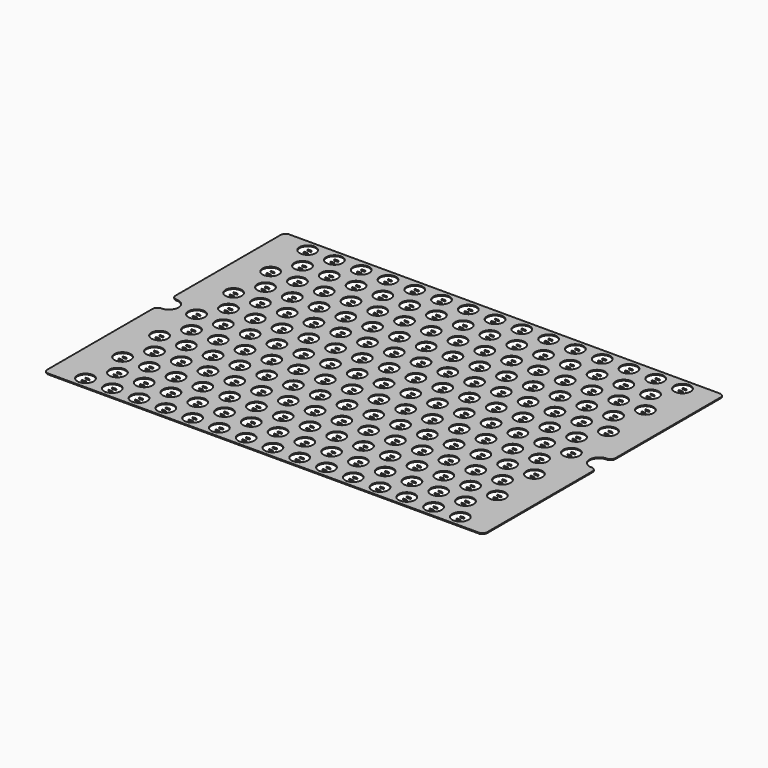
from build123d import *

# Parameters (mm, degrees)
F0_R     = 8.5
F1_DEPTH = 1
F2_W     = 4
F2_H     = 0.6
F3_DEPTH = 1


with BuildPart() as f1:
    # F0 (on Top) → F1 (new body)
    with BuildSketch(Plane.XY):
        with BuildLine():
            Line((225, 157.5), (-225, 157.5))
            ThreePointArc((-225, 157.5), (-228.535534, 156.035534), (-230, 152.5))
            Line((-230, 152.5), (-230, 15))
            ThreePointArc((-230, 15), (-228.535534, 11.464466), (-225, 10))
            ThreePointArc((-225, 10), (-215, 0), (-225, -10))
            ThreePointArc((-225, -10), (-228.535534, -11.464466), (-230, -15))
            Line((-230, -15), (-230, -152.5))
            ThreePointArc((-230, -152.5), (-228.535534, -156.035534), (-225, -157.5))
            Line((-225, -157.5), (225, -157.5))
            ThreePointArc((225, -157.5), (228.535534, -156.035534), (230, -152.5))
            Line((230, -152.5), (230, -15))
            ThreePointArc((230, -15), (228.535534, -11.464466), (225, -10))
            ThreePointArc((225, -10), (215, 0), (225, 10))
            ThreePointArc((225, 10), (228.535534, 11.464466), (230, 15))
            Line((230, 15), (230, 152.5))
            ThreePointArc((230, 152.5), (228.535534, 156.035534), (225, 157.5))
        make_face()
        with Locations((-196, -145.2)):
            Circle(F0_R, mode=Mode.SUBTRACT)
        with Locations((-182, -121)):
            Circle(F0_R, mode=Mode.SUBTRACT)
        with Locations((-168, -145.2)):
            Circle(F0_R, mode=Mode.SUBTRACT)
        with Locations((-140, -145.2)):
            Circle(F0_R, mode=Mode.SUBTRACT)
        with Locations((-154, -121)):
            Circle(F0_R, mode=Mode.SUBTRACT)
        with Locations((-126, -121)):
            Circle(F0_R, mode=Mode.SUBTRACT)
        with Locations((-196, -96.8)):
            Circle(F0_R, mode=Mode.SUBTRACT)
        with Locations((-168, -96.8)):
            Circle(F0_R, mode=Mode.SUBTRACT)
        with Locations((-140, -96.8)):
            Circle(F0_R, mode=Mode.SUBTRACT)
        with Locations((-112, -145.2)):
            Circle(F0_R, mode=Mode.SUBTRACT)
        with Locations((-84, -145.2)):
            Circle(F0_R, mode=Mode.SUBTRACT)
        with Locations((-98, -121)):
            Circle(F0_R, mode=Mode.SUBTRACT)
        with Locations((-70, -121)):
            Circle(F0_R, mode=Mode.SUBTRACT)
        with Locations((-56, -145.2)):
            Circle(F0_R, mode=Mode.SUBTRACT)
        with Locations((-28, -145.2)):
            Circle(F0_R, mode=Mode.SUBTRACT)
        with Locations((-42, -121)):
            Circle(F0_R, mode=Mode.SUBTRACT)
        with Locations((-14, -121)):
            Circle(F0_R, mode=Mode.SUBTRACT)
        with Locations((-112, -96.8)):
            Circle(F0_R, mode=Mode.SUBTRACT)
        with Locations((-84, -96.8)):
            Circle(F0_R, mode=Mode.SUBTRACT)
        with Locations((-56, -96.8)):
            Circle(F0_R, mode=Mode.SUBTRACT)
        with Locations((-28, -96.8)):
            Circle(F0_R, mode=Mode.SUBTRACT)
        with Locations((-182, -72.6)):
            Circle(F0_R, mode=Mode.SUBTRACT)
        with Locations((-196, -48.4)):
            Circle(F0_R, mode=Mode.SUBTRACT)
        with Locations((-154, -72.6)):
            Circle(F0_R, mode=Mode.SUBTRACT)
        with Locations((-126, -72.6)):
            Circle(F0_R, mode=Mode.SUBTRACT)
        with Locations((-168, -48.4)):
            Circle(F0_R, mode=Mode.SUBTRACT)
        with Locations((-140, -48.4)):
            Circle(F0_R, mode=Mode.SUBTRACT)
        with Locations((-182, -24.2)):
            Circle(F0_R, mode=Mode.SUBTRACT)
        with Locations((-154, -24.2)):
            Circle(F0_R, mode=Mode.SUBTRACT)
        with Locations((-126, -24.2)):
            Circle(F0_R, mode=Mode.SUBTRACT)
        with Locations((-98, -72.6)):
            Circle(F0_R, mode=Mode.SUBTRACT)
        with Locations((-70, -72.6)):
            Circle(F0_R, mode=Mode.SUBTRACT)
        with Locations((-112, -48.4)):
            Circle(F0_R, mode=Mode.SUBTRACT)
        with Locations((-84, -48.4)):
            Circle(F0_R, mode=Mode.SUBTRACT)
        with Locations((-42, -72.6)):
            Circle(F0_R, mode=Mode.SUBTRACT)
        with Locations((-14, -72.6)):
            Circle(F0_R, mode=Mode.SUBTRACT)
        with Locations((-56, -48.4)):
            Circle(F0_R, mode=Mode.SUBTRACT)
        with Locations((-28, -48.4)):
            Circle(F0_R, mode=Mode.SUBTRACT)
        with Locations((-98, -24.2)):
            Circle(F0_R, mode=Mode.SUBTRACT)
        with Locations((-70, -24.2)):
            Circle(F0_R, mode=Mode.SUBTRACT)
        with Locations((-42, -24.2)):
            Circle(F0_R, mode=Mode.SUBTRACT)
        with Locations((-14, -24.2)):
            Circle(F0_R, mode=Mode.SUBTRACT)
        with Locations((0, -145.2)):
            Circle(F0_R, mode=Mode.SUBTRACT)
        with Locations((28, -145.2)):
            Circle(F0_R, mode=Mode.SUBTRACT)
        with Locations((56, -145.2)):
            Circle(F0_R, mode=Mode.SUBTRACT)
        with Locations((14, -121)):
            Circle(F0_R, mode=Mode.SUBTRACT)
        with Locations((42, -121)):
            Circle(F0_R, mode=Mode.SUBTRACT)
        with Locations((84, -145.2)):
            Circle(F0_R, mode=Mode.SUBTRACT)
        with Locations((112, -145.2)):
            Circle(F0_R, mode=Mode.SUBTRACT)
        with Locations((70, -121)):
            Circle(F0_R, mode=Mode.SUBTRACT)
        with Locations((98, -121)):
            Circle(F0_R, mode=Mode.SUBTRACT)
        with Locations((0, -96.8)):
            Circle(F0_R, mode=Mode.SUBTRACT)
        with Locations((28, -96.8)):
            Circle(F0_R, mode=Mode.SUBTRACT)
        with Locations((56, -96.8)):
            Circle(F0_R, mode=Mode.SUBTRACT)
        with Locations((84, -96.8)):
            Circle(F0_R, mode=Mode.SUBTRACT)
        with Locations((112, -96.8)):
            Circle(F0_R, mode=Mode.SUBTRACT)
        with Locations((140, -145.2)):
            Circle(F0_R, mode=Mode.SUBTRACT)
        with Locations((168, -145.2)):
            Circle(F0_R, mode=Mode.SUBTRACT)
        with Locations((126, -121)):
            Circle(F0_R, mode=Mode.SUBTRACT)
        with Locations((154, -121)):
            Circle(F0_R, mode=Mode.SUBTRACT)
        with Locations((196, -145.2)):
            Circle(F0_R, mode=Mode.SUBTRACT)
        with Locations((182, -121)):
            Circle(F0_R, mode=Mode.SUBTRACT)
        with Locations((140, -96.8)):
            Circle(F0_R, mode=Mode.SUBTRACT)
        with Locations((168, -96.8)):
            Circle(F0_R, mode=Mode.SUBTRACT)
        with Locations((196, -96.8)):
            Circle(F0_R, mode=Mode.SUBTRACT)
        with Locations((14, -72.6)):
            Circle(F0_R, mode=Mode.SUBTRACT)
        with Locations((42, -72.6)):
            Circle(F0_R, mode=Mode.SUBTRACT)
        with Locations((0, -48.4)):
            Circle(F0_R, mode=Mode.SUBTRACT)
        with Locations((28, -48.4)):
            Circle(F0_R, mode=Mode.SUBTRACT)
        with Locations((56, -48.4)):
            Circle(F0_R, mode=Mode.SUBTRACT)
        with Locations((70, -72.6)):
            Circle(F0_R, mode=Mode.SUBTRACT)
        with Locations((98, -72.6)):
            Circle(F0_R, mode=Mode.SUBTRACT)
        with Locations((84, -48.4)):
            Circle(F0_R, mode=Mode.SUBTRACT)
        with Locations((112, -48.4)):
            Circle(F0_R, mode=Mode.SUBTRACT)
        with Locations((14, -24.2)):
            Circle(F0_R, mode=Mode.SUBTRACT)
        with Locations((42, -24.2)):
            Circle(F0_R, mode=Mode.SUBTRACT)
        with Locations((70, -24.2)):
            Circle(F0_R, mode=Mode.SUBTRACT)
        with Locations((98, -24.2)):
            Circle(F0_R, mode=Mode.SUBTRACT)
        with Locations((126, -72.6)):
            Circle(F0_R, mode=Mode.SUBTRACT)
        with Locations((154, -72.6)):
            Circle(F0_R, mode=Mode.SUBTRACT)
        with Locations((140, -48.4)):
            Circle(F0_R, mode=Mode.SUBTRACT)
        with Locations((168, -48.4)):
            Circle(F0_R, mode=Mode.SUBTRACT)
        with Locations((182, -72.6)):
            Circle(F0_R, mode=Mode.SUBTRACT)
        with Locations((196, -48.4)):
            Circle(F0_R, mode=Mode.SUBTRACT)
        with Locations((126, -24.2)):
            Circle(F0_R, mode=Mode.SUBTRACT)
        with Locations((154, -24.2)):
            Circle(F0_R, mode=Mode.SUBTRACT)
        with Locations((182, -24.2)):
            Circle(F0_R, mode=Mode.SUBTRACT)
        with Locations((-196, 0)):
            Circle(F0_R, mode=Mode.SUBTRACT)
        with Locations((-182, 24.2)):
            Circle(F0_R, mode=Mode.SUBTRACT)
        with Locations((-168, 0)):
            Circle(F0_R, mode=Mode.SUBTRACT)
        with Locations((-140, 0)):
            Circle(F0_R, mode=Mode.SUBTRACT)
        with Locations((-154, 24.2)):
            Circle(F0_R, mode=Mode.SUBTRACT)
        with Locations((-126, 24.2)):
            Circle(F0_R, mode=Mode.SUBTRACT)
        with Locations((-196, 48.4)):
            Circle(F0_R, mode=Mode.SUBTRACT)
        with Locations((-182, 72.6)):
            Circle(F0_R, mode=Mode.SUBTRACT)
        with Locations((-168, 48.4)):
            Circle(F0_R, mode=Mode.SUBTRACT)
        with Locations((-140, 48.4)):
            Circle(F0_R, mode=Mode.SUBTRACT)
        with Locations((-154, 72.6)):
            Circle(F0_R, mode=Mode.SUBTRACT)
        with Locations((-126, 72.6)):
            Circle(F0_R, mode=Mode.SUBTRACT)
        with Locations((-112, 0)):
            Circle(F0_R, mode=Mode.SUBTRACT)
        with Locations((-84, 0)):
            Circle(F0_R, mode=Mode.SUBTRACT)
        with Locations((-98, 24.2)):
            Circle(F0_R, mode=Mode.SUBTRACT)
        with Locations((-70, 24.2)):
            Circle(F0_R, mode=Mode.SUBTRACT)
        with Locations((-56, 0)):
            Circle(F0_R, mode=Mode.SUBTRACT)
        with Locations((-28, 0)):
            Circle(F0_R, mode=Mode.SUBTRACT)
        with Locations((-42, 24.2)):
            Circle(F0_R, mode=Mode.SUBTRACT)
        with Locations((-14, 24.2)):
            Circle(F0_R, mode=Mode.SUBTRACT)
        with Locations((-112, 48.4)):
            Circle(F0_R, mode=Mode.SUBTRACT)
        with Locations((-84, 48.4)):
            Circle(F0_R, mode=Mode.SUBTRACT)
        with Locations((-98, 72.6)):
            Circle(F0_R, mode=Mode.SUBTRACT)
        with Locations((-70, 72.6)):
            Circle(F0_R, mode=Mode.SUBTRACT)
        with Locations((-56, 48.4)):
            Circle(F0_R, mode=Mode.SUBTRACT)
        with Locations((-28, 48.4)):
            Circle(F0_R, mode=Mode.SUBTRACT)
        with Locations((-42, 72.6)):
            Circle(F0_R, mode=Mode.SUBTRACT)
        with Locations((-14, 72.6)):
            Circle(F0_R, mode=Mode.SUBTRACT)
        with Locations((-196, 96.8)):
            Circle(F0_R, mode=Mode.SUBTRACT)
        with Locations((-168, 96.8)):
            Circle(F0_R, mode=Mode.SUBTRACT)
        with Locations((-140, 96.8)):
            Circle(F0_R, mode=Mode.SUBTRACT)
        with Locations((-182, 121)):
            Circle(F0_R, mode=Mode.SUBTRACT)
        with Locations((-196, 145.2)):
            Circle(F0_R, mode=Mode.SUBTRACT)
        with Locations((-154, 121)):
            Circle(F0_R, mode=Mode.SUBTRACT)
        with Locations((-126, 121)):
            Circle(F0_R, mode=Mode.SUBTRACT)
        with Locations((-168, 145.2)):
            Circle(F0_R, mode=Mode.SUBTRACT)
        with Locations((-140, 145.2)):
            Circle(F0_R, mode=Mode.SUBTRACT)
        with Locations((-112, 96.8)):
            Circle(F0_R, mode=Mode.SUBTRACT)
        with Locations((-84, 96.8)):
            Circle(F0_R, mode=Mode.SUBTRACT)
        with Locations((-56, 96.8)):
            Circle(F0_R, mode=Mode.SUBTRACT)
        with Locations((-28, 96.8)):
            Circle(F0_R, mode=Mode.SUBTRACT)
        with Locations((-98, 121)):
            Circle(F0_R, mode=Mode.SUBTRACT)
        with Locations((-70, 121)):
            Circle(F0_R, mode=Mode.SUBTRACT)
        with Locations((-112, 145.2)):
            Circle(F0_R, mode=Mode.SUBTRACT)
        with Locations((-84, 145.2)):
            Circle(F0_R, mode=Mode.SUBTRACT)
        with Locations((-42, 121)):
            Circle(F0_R, mode=Mode.SUBTRACT)
        with Locations((-14, 121)):
            Circle(F0_R, mode=Mode.SUBTRACT)
        with Locations((-56, 145.2)):
            Circle(F0_R, mode=Mode.SUBTRACT)
        with Locations((-28, 145.2)):
            Circle(F0_R, mode=Mode.SUBTRACT)
        Circle(F0_R, mode=Mode.SUBTRACT)
        with Locations((28, 0)):
            Circle(F0_R, mode=Mode.SUBTRACT)
        with Locations((56, 0)):
            Circle(F0_R, mode=Mode.SUBTRACT)
        with Locations((14, 24.2)):
            Circle(F0_R, mode=Mode.SUBTRACT)
        with Locations((42, 24.2)):
            Circle(F0_R, mode=Mode.SUBTRACT)
        with Locations((84, 0)):
            Circle(F0_R, mode=Mode.SUBTRACT)
        with Locations((112, 0)):
            Circle(F0_R, mode=Mode.SUBTRACT)
        with Locations((70, 24.2)):
            Circle(F0_R, mode=Mode.SUBTRACT)
        with Locations((98, 24.2)):
            Circle(F0_R, mode=Mode.SUBTRACT)
        with Locations((0, 48.4)):
            Circle(F0_R, mode=Mode.SUBTRACT)
        with Locations((28, 48.4)):
            Circle(F0_R, mode=Mode.SUBTRACT)
        with Locations((56, 48.4)):
            Circle(F0_R, mode=Mode.SUBTRACT)
        with Locations((14, 72.6)):
            Circle(F0_R, mode=Mode.SUBTRACT)
        with Locations((42, 72.6)):
            Circle(F0_R, mode=Mode.SUBTRACT)
        with Locations((84, 48.4)):
            Circle(F0_R, mode=Mode.SUBTRACT)
        with Locations((112, 48.4)):
            Circle(F0_R, mode=Mode.SUBTRACT)
        with Locations((70, 72.6)):
            Circle(F0_R, mode=Mode.SUBTRACT)
        with Locations((98, 72.6)):
            Circle(F0_R, mode=Mode.SUBTRACT)
        with Locations((140, 0)):
            Circle(F0_R, mode=Mode.SUBTRACT)
        with Locations((168, 0)):
            Circle(F0_R, mode=Mode.SUBTRACT)
        with Locations((126, 24.2)):
            Circle(F0_R, mode=Mode.SUBTRACT)
        with Locations((154, 24.2)):
            Circle(F0_R, mode=Mode.SUBTRACT)
        with Locations((196, 0)):
            Circle(F0_R, mode=Mode.SUBTRACT)
        with Locations((182, 24.2)):
            Circle(F0_R, mode=Mode.SUBTRACT)
        with Locations((140, 48.4)):
            Circle(F0_R, mode=Mode.SUBTRACT)
        with Locations((168, 48.4)):
            Circle(F0_R, mode=Mode.SUBTRACT)
        with Locations((126, 72.6)):
            Circle(F0_R, mode=Mode.SUBTRACT)
        with Locations((154, 72.6)):
            Circle(F0_R, mode=Mode.SUBTRACT)
        with Locations((196, 48.4)):
            Circle(F0_R, mode=Mode.SUBTRACT)
        with Locations((182, 72.6)):
            Circle(F0_R, mode=Mode.SUBTRACT)
        with Locations((0, 96.8)):
            Circle(F0_R, mode=Mode.SUBTRACT)
        with Locations((28, 96.8)):
            Circle(F0_R, mode=Mode.SUBTRACT)
        with Locations((56, 96.8)):
            Circle(F0_R, mode=Mode.SUBTRACT)
        with Locations((84, 96.8)):
            Circle(F0_R, mode=Mode.SUBTRACT)
        with Locations((112, 96.8)):
            Circle(F0_R, mode=Mode.SUBTRACT)
        with Locations((14, 121)):
            Circle(F0_R, mode=Mode.SUBTRACT)
        with Locations((42, 121)):
            Circle(F0_R, mode=Mode.SUBTRACT)
        with Locations((0, 145.2)):
            Circle(F0_R, mode=Mode.SUBTRACT)
        with Locations((28, 145.2)):
            Circle(F0_R, mode=Mode.SUBTRACT)
        with Locations((56, 145.2)):
            Circle(F0_R, mode=Mode.SUBTRACT)
        with Locations((70, 121)):
            Circle(F0_R, mode=Mode.SUBTRACT)
        with Locations((98, 121)):
            Circle(F0_R, mode=Mode.SUBTRACT)
        with Locations((84, 145.2)):
            Circle(F0_R, mode=Mode.SUBTRACT)
        with Locations((112, 145.2)):
            Circle(F0_R, mode=Mode.SUBTRACT)
        with Locations((140, 96.8)):
            Circle(F0_R, mode=Mode.SUBTRACT)
        with Locations((168, 96.8)):
            Circle(F0_R, mode=Mode.SUBTRACT)
        with Locations((196, 96.8)):
            Circle(F0_R, mode=Mode.SUBTRACT)
        with Locations((126, 121)):
            Circle(F0_R, mode=Mode.SUBTRACT)
        with Locations((154, 121)):
            Circle(F0_R, mode=Mode.SUBTRACT)
        with Locations((140, 145.2)):
            Circle(F0_R, mode=Mode.SUBTRACT)
        with Locations((168, 145.2)):
            Circle(F0_R, mode=Mode.SUBTRACT)
        with Locations((182, 121)):
            Circle(F0_R, mode=Mode.SUBTRACT)
        with Locations((196, 145.2)):
            Circle(F0_R, mode=Mode.SUBTRACT)
    extrude(amount=F1_DEPTH)


with BuildPart() as f3:
    # F2 (on face) → F3 (new body)
    with BuildSketch(Plane(origin=(0, 0, 0), x_dir=(1, 0, 0), z_dir=(0, 0, -1))):
        with Locations((196.170587, -147.537594)):
            Rectangle(F2_W, F2_H)
        with Locations((196.170587, -142.537594)):
            Rectangle(F2_W, F2_H)
        with Locations((182.148163, -123.19694)):
            Rectangle(F2_W, F2_H)
        with Locations((182.148163, -118.19694)):
            Rectangle(F2_W, F2_H)
        with Locations((196.170587, -94.137594)):
            Rectangle(F2_W, F2_H)
        with Locations((196.170587, -99.137594)):
            Rectangle(F2_W, F2_H)
        with Locations((196.170587, -45.737594)):
            Rectangle(F2_W, F2_H)
        with Locations((196.170587, -50.737594)):
            Rectangle(F2_W, F2_H)
        with Locations((196.170587, 2.662406)):
            Rectangle(F2_W, F2_H)
        with Locations((196.170587, -2.337594)):
            Rectangle(F2_W, F2_H)
        with Locations((196.170587, 51.062406)):
            Rectangle(F2_W, F2_H)
        with Locations((196.170587, 46.062406)):
            Rectangle(F2_W, F2_H)
        with Locations((196.170587, 99.462406)):
            Rectangle(F2_W, F2_H)
        with Locations((196.170587, 94.462406)):
            Rectangle(F2_W, F2_H)
        with Locations((196.170587, 147.862406)):
            Rectangle(F2_W, F2_H)
        with Locations((196.170587, 142.862406)):
            Rectangle(F2_W, F2_H)
        with Locations((168.170587, -142.537594)):
            Rectangle(F2_W, F2_H)
        with Locations((168.170587, -147.537594)):
            Rectangle(F2_W, F2_H)
        with Locations((168.170587, -94.137594)):
            Rectangle(F2_W, F2_H)
        with Locations((168.170587, -99.137594)):
            Rectangle(F2_W, F2_H)
        with Locations((168.170587, -45.737594)):
            Rectangle(F2_W, F2_H)
        with Locations((168.170587, -50.737594)):
            Rectangle(F2_W, F2_H)
        with Locations((168.170587, 2.662406)):
            Rectangle(F2_W, F2_H)
        with Locations((168.170587, -2.337594)):
            Rectangle(F2_W, F2_H)
        with Locations((168.170587, 51.062406)):
            Rectangle(F2_W, F2_H)
        with Locations((168.170587, 46.062406)):
            Rectangle(F2_W, F2_H)
        with Locations((168.170587, 99.462406)):
            Rectangle(F2_W, F2_H)
        with Locations((168.170587, 94.462406)):
            Rectangle(F2_W, F2_H)
        with Locations((168.170587, 147.862406)):
            Rectangle(F2_W, F2_H)
        with Locations((168.170587, 142.862406)):
            Rectangle(F2_W, F2_H)
        with Locations((140.170587, -142.537594)):
            Rectangle(F2_W, F2_H)
        with Locations((140.170587, -147.537594)):
            Rectangle(F2_W, F2_H)
        with Locations((140.170587, -94.137594)):
            Rectangle(F2_W, F2_H)
        with Locations((140.170587, -99.137594)):
            Rectangle(F2_W, F2_H)
        with Locations((140.170587, -45.737594)):
            Rectangle(F2_W, F2_H)
        with Locations((140.170587, -50.737594)):
            Rectangle(F2_W, F2_H)
        with Locations((140.170587, 2.662406)):
            Rectangle(F2_W, F2_H)
        with Locations((140.170587, -2.337594)):
            Rectangle(F2_W, F2_H)
        with Locations((140.170587, 51.062406)):
            Rectangle(F2_W, F2_H)
        with Locations((140.170587, 46.062406)):
            Rectangle(F2_W, F2_H)
        with Locations((140.170587, 99.462406)):
            Rectangle(F2_W, F2_H)
        with Locations((140.170587, 94.462406)):
            Rectangle(F2_W, F2_H)
        with Locations((140.170587, 147.862406)):
            Rectangle(F2_W, F2_H)
        with Locations((140.170587, 142.862406)):
            Rectangle(F2_W, F2_H)
        with Locations((112.170587, -142.537594)):
            Rectangle(F2_W, F2_H)
        with Locations((112.170587, -147.537594)):
            Rectangle(F2_W, F2_H)
        with Locations((112.170587, -94.137594)):
            Rectangle(F2_W, F2_H)
        with Locations((112.170587, -99.137594)):
            Rectangle(F2_W, F2_H)
        with Locations((112.170587, -45.737594)):
            Rectangle(F2_W, F2_H)
        with Locations((112.170587, -50.737594)):
            Rectangle(F2_W, F2_H)
        with Locations((112.170587, 2.662406)):
            Rectangle(F2_W, F2_H)
        with Locations((112.170587, -2.337594)):
            Rectangle(F2_W, F2_H)
        with Locations((112.170587, 51.062406)):
            Rectangle(F2_W, F2_H)
        with Locations((112.170587, 46.062406)):
            Rectangle(F2_W, F2_H)
        with Locations((112.170587, 99.462406)):
            Rectangle(F2_W, F2_H)
        with Locations((112.170587, 94.462406)):
            Rectangle(F2_W, F2_H)
        with Locations((112.170587, 147.862406)):
            Rectangle(F2_W, F2_H)
        with Locations((112.170587, 142.862406)):
            Rectangle(F2_W, F2_H)
        with Locations((84.170587, -142.537594)):
            Rectangle(F2_W, F2_H)
        with Locations((84.170587, -147.537594)):
            Rectangle(F2_W, F2_H)
        with Locations((84.170587, -94.137594)):
            Rectangle(F2_W, F2_H)
        with Locations((84.170587, -99.137594)):
            Rectangle(F2_W, F2_H)
        with Locations((84.170587, -45.737594)):
            Rectangle(F2_W, F2_H)
        with Locations((84.170587, -50.737594)):
            Rectangle(F2_W, F2_H)
        with Locations((84.170587, 2.662406)):
            Rectangle(F2_W, F2_H)
        with Locations((84.170587, -2.337594)):
            Rectangle(F2_W, F2_H)
        with Locations((84.170587, 51.062406)):
            Rectangle(F2_W, F2_H)
        with Locations((84.170587, 46.062406)):
            Rectangle(F2_W, F2_H)
        with Locations((84.170587, 99.462406)):
            Rectangle(F2_W, F2_H)
        with Locations((84.170587, 94.462406)):
            Rectangle(F2_W, F2_H)
        with Locations((84.170587, 147.862406)):
            Rectangle(F2_W, F2_H)
        with Locations((84.170587, 142.862406)):
            Rectangle(F2_W, F2_H)
        with Locations((56.170587, -142.537594)):
            Rectangle(F2_W, F2_H)
        with Locations((56.170587, -147.537594)):
            Rectangle(F2_W, F2_H)
        with Locations((56.170587, -94.137594)):
            Rectangle(F2_W, F2_H)
        with Locations((56.170587, -99.137594)):
            Rectangle(F2_W, F2_H)
        with Locations((56.170587, -45.737594)):
            Rectangle(F2_W, F2_H)
        with Locations((56.170587, -50.737594)):
            Rectangle(F2_W, F2_H)
        with Locations((56.170587, 2.662406)):
            Rectangle(F2_W, F2_H)
        with Locations((56.170587, -2.337594)):
            Rectangle(F2_W, F2_H)
        with Locations((56.170587, 51.062406)):
            Rectangle(F2_W, F2_H)
        with Locations((56.170587, 46.062406)):
            Rectangle(F2_W, F2_H)
        with Locations((56.170587, 99.462406)):
            Rectangle(F2_W, F2_H)
        with Locations((56.170587, 94.462406)):
            Rectangle(F2_W, F2_H)
        with Locations((56.170587, 147.862406)):
            Rectangle(F2_W, F2_H)
        with Locations((56.170587, 142.862406)):
            Rectangle(F2_W, F2_H)
        with Locations((28.170587, -142.537594)):
            Rectangle(F2_W, F2_H)
        with Locations((28.170587, -147.537594)):
            Rectangle(F2_W, F2_H)
        with Locations((28.170587, -94.137594)):
            Rectangle(F2_W, F2_H)
        with Locations((28.170587, -99.137594)):
            Rectangle(F2_W, F2_H)
        with Locations((28.170587, -45.737594)):
            Rectangle(F2_W, F2_H)
        with Locations((28.170587, -50.737594)):
            Rectangle(F2_W, F2_H)
        with Locations((28.170587, 2.662406)):
            Rectangle(F2_W, F2_H)
        with Locations((28.170587, -2.337594)):
            Rectangle(F2_W, F2_H)
        with Locations((28.170587, 51.062406)):
            Rectangle(F2_W, F2_H)
        with Locations((28.170587, 46.062406)):
            Rectangle(F2_W, F2_H)
        with Locations((28.170587, 99.462406)):
            Rectangle(F2_W, F2_H)
        with Locations((28.170587, 94.462406)):
            Rectangle(F2_W, F2_H)
        with Locations((28.170587, 147.862406)):
            Rectangle(F2_W, F2_H)
        with Locations((28.170587, 142.862406)):
            Rectangle(F2_W, F2_H)
        with Locations((0.170587, -142.537594)):
            Rectangle(F2_W, F2_H)
        with Locations((0.170587, -147.537594)):
            Rectangle(F2_W, F2_H)
        with Locations((0.170587, -94.137594)):
            Rectangle(F2_W, F2_H)
        with Locations((0.170587, -99.137594)):
            Rectangle(F2_W, F2_H)
        with Locations((0.170587, -45.737594)):
            Rectangle(F2_W, F2_H)
        with Locations((0.170587, -50.737594)):
            Rectangle(F2_W, F2_H)
        with Locations((0.170587, 2.662406)):
            Rectangle(F2_W, F2_H)
        with Locations((0.170587, -2.337594)):
            Rectangle(F2_W, F2_H)
        with Locations((0.170587, 51.062406)):
            Rectangle(F2_W, F2_H)
        with Locations((0.170587, 46.062406)):
            Rectangle(F2_W, F2_H)
        with Locations((0.170587, 99.462406)):
            Rectangle(F2_W, F2_H)
        with Locations((0.170587, 94.462406)):
            Rectangle(F2_W, F2_H)
        with Locations((0.170587, 147.862406)):
            Rectangle(F2_W, F2_H)
        with Locations((0.170587, 142.862406)):
            Rectangle(F2_W, F2_H)
        with Locations((-27.829413, -142.537594)):
            Rectangle(F2_W, F2_H)
        with Locations((-27.829413, -147.537594)):
            Rectangle(F2_W, F2_H)
        with Locations((-27.829413, -94.137594)):
            Rectangle(F2_W, F2_H)
        with Locations((-27.829413, -99.137594)):
            Rectangle(F2_W, F2_H)
        with Locations((-27.829413, -45.737594)):
            Rectangle(F2_W, F2_H)
        with Locations((-27.829413, -50.737594)):
            Rectangle(F2_W, F2_H)
        with Locations((-27.829413, 2.662406)):
            Rectangle(F2_W, F2_H)
        with Locations((-27.829413, -2.337594)):
            Rectangle(F2_W, F2_H)
        with Locations((-27.829413, 51.062406)):
            Rectangle(F2_W, F2_H)
        with Locations((-27.829413, 46.062406)):
            Rectangle(F2_W, F2_H)
        with Locations((-27.829413, 99.462406)):
            Rectangle(F2_W, F2_H)
        with Locations((-27.829413, 94.462406)):
            Rectangle(F2_W, F2_H)
        with Locations((-27.829413, 147.862406)):
            Rectangle(F2_W, F2_H)
        with Locations((-27.829413, 142.862406)):
            Rectangle(F2_W, F2_H)
        with Locations((-55.829413, -142.537594)):
            Rectangle(F2_W, F2_H)
        with Locations((-55.829413, -147.537594)):
            Rectangle(F2_W, F2_H)
        with Locations((-55.829413, -94.137594)):
            Rectangle(F2_W, F2_H)
        with Locations((-55.829413, -99.137594)):
            Rectangle(F2_W, F2_H)
        with Locations((-55.829413, -45.737594)):
            Rectangle(F2_W, F2_H)
        with Locations((-55.829413, -50.737594)):
            Rectangle(F2_W, F2_H)
        with Locations((-55.829413, 2.662406)):
            Rectangle(F2_W, F2_H)
        with Locations((-55.829413, -2.337594)):
            Rectangle(F2_W, F2_H)
        with Locations((-55.829413, 51.062406)):
            Rectangle(F2_W, F2_H)
        with Locations((-55.829413, 46.062406)):
            Rectangle(F2_W, F2_H)
        with Locations((-55.829413, 99.462406)):
            Rectangle(F2_W, F2_H)
        with Locations((-55.829413, 94.462406)):
            Rectangle(F2_W, F2_H)
        with Locations((-55.829413, 147.862406)):
            Rectangle(F2_W, F2_H)
        with Locations((-55.829413, 142.862406)):
            Rectangle(F2_W, F2_H)
        with Locations((-83.829413, -142.537594)):
            Rectangle(F2_W, F2_H)
        with Locations((-83.829413, -147.537594)):
            Rectangle(F2_W, F2_H)
        with Locations((-83.829413, -94.137594)):
            Rectangle(F2_W, F2_H)
        with Locations((-83.829413, -99.137594)):
            Rectangle(F2_W, F2_H)
        with Locations((-83.829413, -45.737594)):
            Rectangle(F2_W, F2_H)
        with Locations((-83.829413, -50.737594)):
            Rectangle(F2_W, F2_H)
        with Locations((-83.829413, 2.662406)):
            Rectangle(F2_W, F2_H)
        with Locations((-83.829413, -2.337594)):
            Rectangle(F2_W, F2_H)
        with Locations((-83.829413, 51.062406)):
            Rectangle(F2_W, F2_H)
        with Locations((-83.829413, 46.062406)):
            Rectangle(F2_W, F2_H)
        with Locations((-83.829413, 99.462406)):
            Rectangle(F2_W, F2_H)
        with Locations((-83.829413, 94.462406)):
            Rectangle(F2_W, F2_H)
        with Locations((-83.829413, 147.862406)):
            Rectangle(F2_W, F2_H)
        with Locations((-83.829413, 142.862406)):
            Rectangle(F2_W, F2_H)
        with Locations((-111.829413, -142.537594)):
            Rectangle(F2_W, F2_H)
        with Locations((-111.829413, -147.537594)):
            Rectangle(F2_W, F2_H)
        with Locations((-111.829413, -94.137594)):
            Rectangle(F2_W, F2_H)
        with Locations((-111.829413, -99.137594)):
            Rectangle(F2_W, F2_H)
        with Locations((-111.829413, -45.737594)):
            Rectangle(F2_W, F2_H)
        with Locations((-111.829413, -50.737594)):
            Rectangle(F2_W, F2_H)
        with Locations((-111.829413, 2.662406)):
            Rectangle(F2_W, F2_H)
        with Locations((-111.829413, -2.337594)):
            Rectangle(F2_W, F2_H)
        with Locations((-111.829413, 51.062406)):
            Rectangle(F2_W, F2_H)
        with Locations((-111.829413, 46.062406)):
            Rectangle(F2_W, F2_H)
        with Locations((-111.829413, 99.462406)):
            Rectangle(F2_W, F2_H)
        with Locations((-111.829413, 94.462406)):
            Rectangle(F2_W, F2_H)
        with Locations((-111.829413, 147.862406)):
            Rectangle(F2_W, F2_H)
        with Locations((-111.829413, 142.862406)):
            Rectangle(F2_W, F2_H)
        with Locations((-139.829413, -142.537594)):
            Rectangle(F2_W, F2_H)
        with Locations((-139.829413, -147.537594)):
            Rectangle(F2_W, F2_H)
        with Locations((-139.829413, -94.137594)):
            Rectangle(F2_W, F2_H)
        with Locations((-139.829413, -99.137594)):
            Rectangle(F2_W, F2_H)
        with Locations((-139.829413, -45.737594)):
            Rectangle(F2_W, F2_H)
        with Locations((-139.829413, -50.737594)):
            Rectangle(F2_W, F2_H)
        with Locations((-139.829413, 2.662406)):
            Rectangle(F2_W, F2_H)
        with Locations((-139.829413, -2.337594)):
            Rectangle(F2_W, F2_H)
        with Locations((-139.829413, 51.062406)):
            Rectangle(F2_W, F2_H)
        with Locations((-139.829413, 46.062406)):
            Rectangle(F2_W, F2_H)
        with Locations((-139.829413, 99.462406)):
            Rectangle(F2_W, F2_H)
        with Locations((-139.829413, 94.462406)):
            Rectangle(F2_W, F2_H)
        with Locations((-139.829413, 147.862406)):
            Rectangle(F2_W, F2_H)
        with Locations((-139.829413, 142.862406)):
            Rectangle(F2_W, F2_H)
        with Locations((-167.829413, -142.537594)):
            Rectangle(F2_W, F2_H)
        with Locations((-167.829413, -147.537594)):
            Rectangle(F2_W, F2_H)
        with Locations((-167.829413, -94.137594)):
            Rectangle(F2_W, F2_H)
        with Locations((-167.829413, -99.137594)):
            Rectangle(F2_W, F2_H)
        with Locations((-167.829413, -45.737594)):
            Rectangle(F2_W, F2_H)
        with Locations((-167.829413, -50.737594)):
            Rectangle(F2_W, F2_H)
        with Locations((-167.829413, 2.662406)):
            Rectangle(F2_W, F2_H)
        with Locations((-167.829413, -2.337594)):
            Rectangle(F2_W, F2_H)
        with Locations((-167.829413, 51.062406)):
            Rectangle(F2_W, F2_H)
        with Locations((-167.829413, 46.062406)):
            Rectangle(F2_W, F2_H)
        with Locations((-167.829413, 99.462406)):
            Rectangle(F2_W, F2_H)
        with Locations((-167.829413, 94.462406)):
            Rectangle(F2_W, F2_H)
        with Locations((-167.829413, 147.862406)):
            Rectangle(F2_W, F2_H)
        with Locations((-167.829413, 142.862406)):
            Rectangle(F2_W, F2_H)
        with Locations((-195.829413, -142.537594)):
            Rectangle(F2_W, F2_H)
        with Locations((-195.829413, -147.537594)):
            Rectangle(F2_W, F2_H)
        with Locations((-195.829413, -94.137594)):
            Rectangle(F2_W, F2_H)
        with Locations((-195.829413, -99.137594)):
            Rectangle(F2_W, F2_H)
        with Locations((-195.829413, -45.737594)):
            Rectangle(F2_W, F2_H)
        with Locations((-195.829413, -50.737594)):
            Rectangle(F2_W, F2_H)
        with Locations((-195.829413, 2.662406)):
            Rectangle(F2_W, F2_H)
        with Locations((-195.829413, -2.337594)):
            Rectangle(F2_W, F2_H)
        with Locations((-195.829413, 51.062406)):
            Rectangle(F2_W, F2_H)
        with Locations((-195.829413, 46.062406)):
            Rectangle(F2_W, F2_H)
        with Locations((-195.829413, 99.462406)):
            Rectangle(F2_W, F2_H)
        with Locations((-195.829413, 94.462406)):
            Rectangle(F2_W, F2_H)
        with Locations((-195.829413, 147.862406)):
            Rectangle(F2_W, F2_H)
        with Locations((-195.829413, 142.862406)):
            Rectangle(F2_W, F2_H)
        with Locations((182.148163, -74.79694)):
            Rectangle(F2_W, F2_H)
        with Locations((182.148163, -69.79694)):
            Rectangle(F2_W, F2_H)
        with Locations((182.148163, -26.39694)):
            Rectangle(F2_W, F2_H)
        with Locations((182.148163, -21.39694)):
            Rectangle(F2_W, F2_H)
        with Locations((182.148163, 22.00306)):
            Rectangle(F2_W, F2_H)
        with Locations((182.148163, 27.00306)):
            Rectangle(F2_W, F2_H)
        with Locations((182.148163, 70.40306)):
            Rectangle(F2_W, F2_H)
        with Locations((182.148163, 75.40306)):
            Rectangle(F2_W, F2_H)
        with Locations((182.148163, 118.80306)):
            Rectangle(F2_W, F2_H)
        with Locations((182.148163, 123.80306)):
            Rectangle(F2_W, F2_H)
        with Locations((154.148163, -123.19694)):
            Rectangle(F2_W, F2_H)
        with Locations((154.148163, -118.19694)):
            Rectangle(F2_W, F2_H)
        with Locations((154.148163, -74.79694)):
            Rectangle(F2_W, F2_H)
        with Locations((154.148163, -69.79694)):
            Rectangle(F2_W, F2_H)
        with Locations((154.148163, -26.39694)):
            Rectangle(F2_W, F2_H)
        with Locations((154.148163, -21.39694)):
            Rectangle(F2_W, F2_H)
        with Locations((154.148163, 22.00306)):
            Rectangle(F2_W, F2_H)
        with Locations((154.148163, 27.00306)):
            Rectangle(F2_W, F2_H)
        with Locations((154.148163, 70.40306)):
            Rectangle(F2_W, F2_H)
        with Locations((154.148163, 75.40306)):
            Rectangle(F2_W, F2_H)
        with Locations((154.148163, 118.80306)):
            Rectangle(F2_W, F2_H)
        with Locations((154.148163, 123.80306)):
            Rectangle(F2_W, F2_H)
        with Locations((126.148163, -123.19694)):
            Rectangle(F2_W, F2_H)
        with Locations((126.148163, -118.19694)):
            Rectangle(F2_W, F2_H)
        with Locations((126.148163, -74.79694)):
            Rectangle(F2_W, F2_H)
        with Locations((126.148163, -69.79694)):
            Rectangle(F2_W, F2_H)
        with Locations((126.148163, -26.39694)):
            Rectangle(F2_W, F2_H)
        with Locations((126.148163, -21.39694)):
            Rectangle(F2_W, F2_H)
        with Locations((126.148163, 22.00306)):
            Rectangle(F2_W, F2_H)
        with Locations((126.148163, 27.00306)):
            Rectangle(F2_W, F2_H)
        with Locations((126.148163, 70.40306)):
            Rectangle(F2_W, F2_H)
        with Locations((126.148163, 75.40306)):
            Rectangle(F2_W, F2_H)
        with Locations((126.148163, 118.80306)):
            Rectangle(F2_W, F2_H)
        with Locations((126.148163, 123.80306)):
            Rectangle(F2_W, F2_H)
        with Locations((98.148163, -123.19694)):
            Rectangle(F2_W, F2_H)
        with Locations((98.148163, -118.19694)):
            Rectangle(F2_W, F2_H)
        with Locations((98.148163, -74.79694)):
            Rectangle(F2_W, F2_H)
        with Locations((98.148163, -69.79694)):
            Rectangle(F2_W, F2_H)
        with Locations((98.148163, -26.39694)):
            Rectangle(F2_W, F2_H)
        with Locations((98.148163, -21.39694)):
            Rectangle(F2_W, F2_H)
        with Locations((98.148163, 22.00306)):
            Rectangle(F2_W, F2_H)
        with Locations((98.148163, 27.00306)):
            Rectangle(F2_W, F2_H)
        with Locations((98.148163, 70.40306)):
            Rectangle(F2_W, F2_H)
        with Locations((98.148163, 75.40306)):
            Rectangle(F2_W, F2_H)
        with Locations((98.148163, 118.80306)):
            Rectangle(F2_W, F2_H)
        with Locations((98.148163, 123.80306)):
            Rectangle(F2_W, F2_H)
        with Locations((70.148163, -123.19694)):
            Rectangle(F2_W, F2_H)
        with Locations((70.148163, -118.19694)):
            Rectangle(F2_W, F2_H)
        with Locations((70.148163, -74.79694)):
            Rectangle(F2_W, F2_H)
        with Locations((70.148163, -69.79694)):
            Rectangle(F2_W, F2_H)
        with Locations((70.148163, -26.39694)):
            Rectangle(F2_W, F2_H)
        with Locations((70.148163, -21.39694)):
            Rectangle(F2_W, F2_H)
        with Locations((70.148163, 22.00306)):
            Rectangle(F2_W, F2_H)
        with Locations((70.148163, 27.00306)):
            Rectangle(F2_W, F2_H)
        with Locations((70.148163, 70.40306)):
            Rectangle(F2_W, F2_H)
        with Locations((70.148163, 75.40306)):
            Rectangle(F2_W, F2_H)
        with Locations((70.148163, 118.80306)):
            Rectangle(F2_W, F2_H)
        with Locations((70.148163, 123.80306)):
            Rectangle(F2_W, F2_H)
        with Locations((42.148163, -123.19694)):
            Rectangle(F2_W, F2_H)
        with Locations((42.148163, -118.19694)):
            Rectangle(F2_W, F2_H)
        with Locations((42.148163, -74.79694)):
            Rectangle(F2_W, F2_H)
        with Locations((42.148163, -69.79694)):
            Rectangle(F2_W, F2_H)
        with Locations((42.148163, -26.39694)):
            Rectangle(F2_W, F2_H)
        with Locations((42.148163, -21.39694)):
            Rectangle(F2_W, F2_H)
        with Locations((42.148163, 22.00306)):
            Rectangle(F2_W, F2_H)
        with Locations((42.148163, 27.00306)):
            Rectangle(F2_W, F2_H)
        with Locations((42.148163, 70.40306)):
            Rectangle(F2_W, F2_H)
        with Locations((42.148163, 75.40306)):
            Rectangle(F2_W, F2_H)
        with Locations((42.148163, 118.80306)):
            Rectangle(F2_W, F2_H)
        with Locations((42.148163, 123.80306)):
            Rectangle(F2_W, F2_H)
        with Locations((14.148163, -123.19694)):
            Rectangle(F2_W, F2_H)
        with Locations((14.148163, -118.19694)):
            Rectangle(F2_W, F2_H)
        with Locations((14.148163, -74.79694)):
            Rectangle(F2_W, F2_H)
        with Locations((14.148163, -69.79694)):
            Rectangle(F2_W, F2_H)
        with Locations((14.148163, -26.39694)):
            Rectangle(F2_W, F2_H)
        with Locations((14.148163, -21.39694)):
            Rectangle(F2_W, F2_H)
        with Locations((14.148163, 22.00306)):
            Rectangle(F2_W, F2_H)
        with Locations((14.148163, 27.00306)):
            Rectangle(F2_W, F2_H)
        with Locations((14.148163, 70.40306)):
            Rectangle(F2_W, F2_H)
        with Locations((14.148163, 75.40306)):
            Rectangle(F2_W, F2_H)
        with Locations((14.148163, 118.80306)):
            Rectangle(F2_W, F2_H)
        with Locations((14.148163, 123.80306)):
            Rectangle(F2_W, F2_H)
        with Locations((-13.851837, -123.19694)):
            Rectangle(F2_W, F2_H)
        with Locations((-13.851837, -118.19694)):
            Rectangle(F2_W, F2_H)
        with Locations((-13.851837, -74.79694)):
            Rectangle(F2_W, F2_H)
        with Locations((-13.851837, -69.79694)):
            Rectangle(F2_W, F2_H)
        with Locations((-13.851837, -26.39694)):
            Rectangle(F2_W, F2_H)
        with Locations((-13.851837, -21.39694)):
            Rectangle(F2_W, F2_H)
        with Locations((-13.851837, 22.00306)):
            Rectangle(F2_W, F2_H)
        with Locations((-13.851837, 27.00306)):
            Rectangle(F2_W, F2_H)
        with Locations((-13.851837, 70.40306)):
            Rectangle(F2_W, F2_H)
        with Locations((-13.851837, 75.40306)):
            Rectangle(F2_W, F2_H)
        with Locations((-13.851837, 118.80306)):
            Rectangle(F2_W, F2_H)
        with Locations((-13.851837, 123.80306)):
            Rectangle(F2_W, F2_H)
        with Locations((-41.851837, -123.19694)):
            Rectangle(F2_W, F2_H)
        with Locations((-41.851837, -118.19694)):
            Rectangle(F2_W, F2_H)
        with Locations((-41.851837, -74.79694)):
            Rectangle(F2_W, F2_H)
        with Locations((-41.851837, -69.79694)):
            Rectangle(F2_W, F2_H)
        with Locations((-41.851837, -26.39694)):
            Rectangle(F2_W, F2_H)
        with Locations((-41.851837, -21.39694)):
            Rectangle(F2_W, F2_H)
        with Locations((-41.851837, 22.00306)):
            Rectangle(F2_W, F2_H)
        with Locations((-41.851837, 27.00306)):
            Rectangle(F2_W, F2_H)
        with Locations((-41.851837, 70.40306)):
            Rectangle(F2_W, F2_H)
        with Locations((-41.851837, 75.40306)):
            Rectangle(F2_W, F2_H)
        with Locations((-41.851837, 118.80306)):
            Rectangle(F2_W, F2_H)
        with Locations((-41.851837, 123.80306)):
            Rectangle(F2_W, F2_H)
        with Locations((-69.851837, -123.19694)):
            Rectangle(F2_W, F2_H)
        with Locations((-69.851837, -118.19694)):
            Rectangle(F2_W, F2_H)
        with Locations((-69.851837, -74.79694)):
            Rectangle(F2_W, F2_H)
        with Locations((-69.851837, -69.79694)):
            Rectangle(F2_W, F2_H)
        with Locations((-69.851837, -26.39694)):
            Rectangle(F2_W, F2_H)
        with Locations((-69.851837, -21.39694)):
            Rectangle(F2_W, F2_H)
        with Locations((-69.851837, 22.00306)):
            Rectangle(F2_W, F2_H)
        with Locations((-69.851837, 27.00306)):
            Rectangle(F2_W, F2_H)
        with Locations((-69.851837, 70.40306)):
            Rectangle(F2_W, F2_H)
        with Locations((-69.851837, 75.40306)):
            Rectangle(F2_W, F2_H)
        with Locations((-69.851837, 118.80306)):
            Rectangle(F2_W, F2_H)
        with Locations((-69.851837, 123.80306)):
            Rectangle(F2_W, F2_H)
        with Locations((-97.851837, -123.19694)):
            Rectangle(F2_W, F2_H)
        with Locations((-97.851837, -118.19694)):
            Rectangle(F2_W, F2_H)
        with Locations((-97.851837, -74.79694)):
            Rectangle(F2_W, F2_H)
        with Locations((-97.851837, -69.79694)):
            Rectangle(F2_W, F2_H)
        with Locations((-97.851837, -26.39694)):
            Rectangle(F2_W, F2_H)
        with Locations((-97.851837, -21.39694)):
            Rectangle(F2_W, F2_H)
        with Locations((-97.851837, 22.00306)):
            Rectangle(F2_W, F2_H)
        with Locations((-97.851837, 27.00306)):
            Rectangle(F2_W, F2_H)
        with Locations((-97.851837, 70.40306)):
            Rectangle(F2_W, F2_H)
        with Locations((-97.851837, 75.40306)):
            Rectangle(F2_W, F2_H)
        with Locations((-97.851837, 118.80306)):
            Rectangle(F2_W, F2_H)
        with Locations((-97.851837, 123.80306)):
            Rectangle(F2_W, F2_H)
        with Locations((-125.851837, -123.19694)):
            Rectangle(F2_W, F2_H)
        with Locations((-125.851837, -118.19694)):
            Rectangle(F2_W, F2_H)
        with Locations((-125.851837, -74.79694)):
            Rectangle(F2_W, F2_H)
        with Locations((-125.851837, -69.79694)):
            Rectangle(F2_W, F2_H)
        with Locations((-125.851837, -26.39694)):
            Rectangle(F2_W, F2_H)
        with Locations((-125.851837, -21.39694)):
            Rectangle(F2_W, F2_H)
        with Locations((-125.851837, 22.00306)):
            Rectangle(F2_W, F2_H)
        with Locations((-125.851837, 27.00306)):
            Rectangle(F2_W, F2_H)
        with Locations((-125.851837, 70.40306)):
            Rectangle(F2_W, F2_H)
        with Locations((-125.851837, 75.40306)):
            Rectangle(F2_W, F2_H)
        with Locations((-125.851837, 118.80306)):
            Rectangle(F2_W, F2_H)
        with Locations((-125.851837, 123.80306)):
            Rectangle(F2_W, F2_H)
        with Locations((-153.851837, -123.19694)):
            Rectangle(F2_W, F2_H)
        with Locations((-153.851837, -118.19694)):
            Rectangle(F2_W, F2_H)
        with Locations((-153.851837, -74.79694)):
            Rectangle(F2_W, F2_H)
        with Locations((-153.851837, -69.79694)):
            Rectangle(F2_W, F2_H)
        with Locations((-153.851837, -26.39694)):
            Rectangle(F2_W, F2_H)
        with Locations((-153.851837, -21.39694)):
            Rectangle(F2_W, F2_H)
        with Locations((-153.851837, 22.00306)):
            Rectangle(F2_W, F2_H)
        with Locations((-153.851837, 27.00306)):
            Rectangle(F2_W, F2_H)
        with Locations((-153.851837, 70.40306)):
            Rectangle(F2_W, F2_H)
        with Locations((-153.851837, 75.40306)):
            Rectangle(F2_W, F2_H)
        with Locations((-153.851837, 118.80306)):
            Rectangle(F2_W, F2_H)
        with Locations((-153.851837, 123.80306)):
            Rectangle(F2_W, F2_H)
        with Locations((-181.851837, -123.19694)):
            Rectangle(F2_W, F2_H)
        with Locations((-181.851837, -118.19694)):
            Rectangle(F2_W, F2_H)
        with Locations((-181.851837, -74.79694)):
            Rectangle(F2_W, F2_H)
        with Locations((-181.851837, -69.79694)):
            Rectangle(F2_W, F2_H)
        with Locations((-181.851837, -26.39694)):
            Rectangle(F2_W, F2_H)
        with Locations((-181.851837, -21.39694)):
            Rectangle(F2_W, F2_H)
        with Locations((-181.851837, 22.00306)):
            Rectangle(F2_W, F2_H)
        with Locations((-181.851837, 27.00306)):
            Rectangle(F2_W, F2_H)
        with Locations((-181.851837, 70.40306)):
            Rectangle(F2_W, F2_H)
        with Locations((-181.851837, 75.40306)):
            Rectangle(F2_W, F2_H)
        with Locations((-181.851837, 118.80306)):
            Rectangle(F2_W, F2_H)
        with Locations((-181.851837, 123.80306)):
            Rectangle(F2_W, F2_H)
    extrude(amount=F3_DEPTH)


solid = Compound([f1.part, f3.part])
